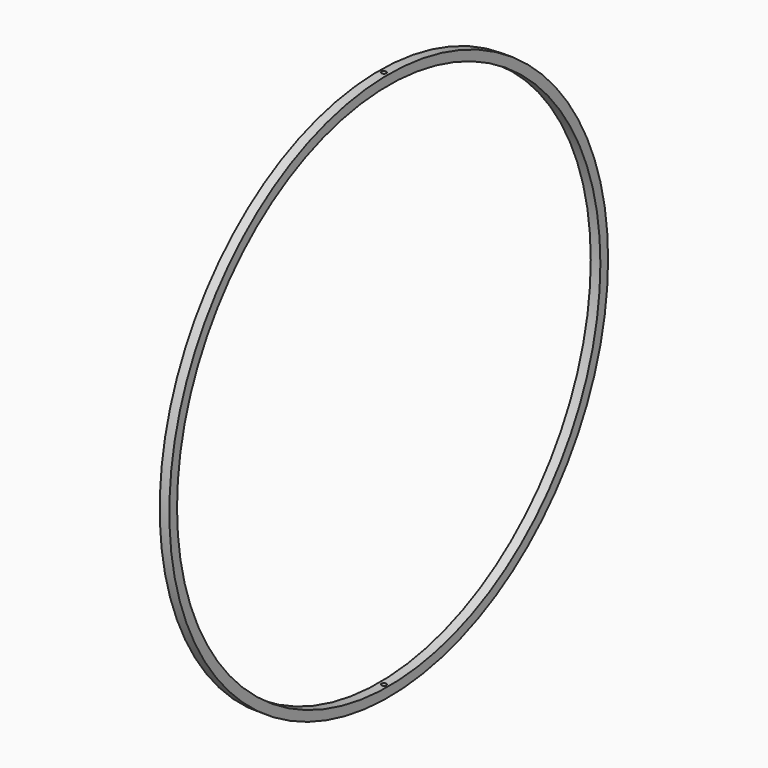
from build123d import *

# Parameters (mm, degrees)
SKETCH012_R      = 5
EXTRUDE012_DEPTH = 1500
SKETCH001_R      = 570
SKETCH001_R_2    = 550
EXTRUDE_DEPTH    = 10


with BuildPart() as extrude012:
    # Sketch012 (on Face1 of Extrude011) → Extrude012 (new body)
    with BuildSketch(Plane.XY.offset(650)):
        Circle(SKETCH012_R)
    extrude(amount=-EXTRUDE012_DEPTH)


with BuildPart() as cut:
    # Sketch001 → Extrude (new body, symmetric)
    with BuildSketch(Plane.YZ):
        Circle(SKETCH001_R)
        Circle(SKETCH001_R_2, mode=Mode.SUBTRACT)
    extrude(amount=EXTRUDE_DEPTH, both=True)

    # Cut: cut Extrude012
    add(extrude012.part, mode=Mode.SUBTRACT)


solid = cut.part
